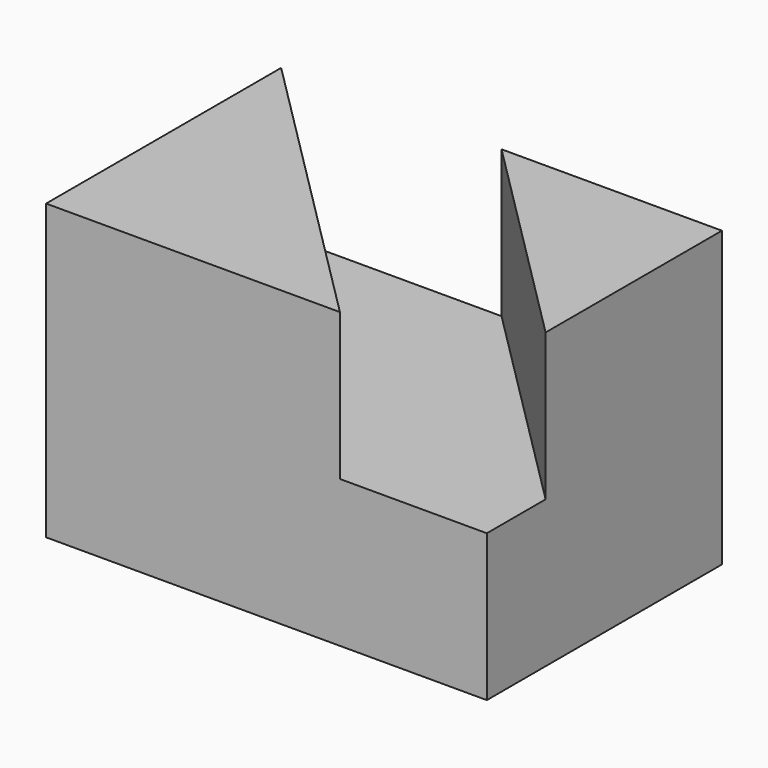
from build123d import *

# Parameters (mm, degrees)
F0_W     = 38.1
F0_H     = 25.4
F1_DEPTH = 25.4
F3_DEPTH = 12.7


with BuildPart() as f1:
    # F0 (on Front) → F1 (new body)
    with BuildSketch(Plane.XZ):
        with Locations((19.05, 12.7)):
            Rectangle(F0_W, F0_H)
    extrude(amount=-F1_DEPTH)

    # F2 (on face) → F3 (cut)
    with BuildSketch(Plane.XY.offset(25.4)):
        Polygon((19.05, 25.4), (0, 25.4), (25.4, 0), (38.1, 0), (38.1, 6.35), align=None)
    extrude(amount=-F3_DEPTH, mode=Mode.SUBTRACT)


solid = f1.part
